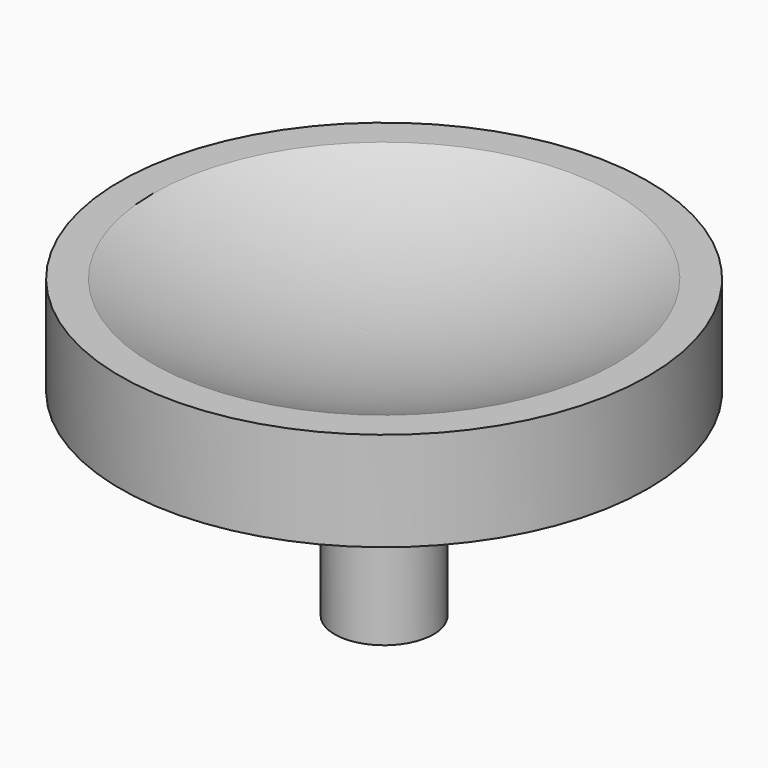
from build123d import *

# Parameters (mm, degrees)
F0_R     = 10.16
F1_DEPTH = 3.81
F4_R     = 1.905
F5_DEPTH = 7.62


with BuildPart() as f1:
    # F0 (on Top) → F1 (new body)
    with BuildSketch(Plane.XY):
        Circle(F0_R)
    extrude(amount=F1_DEPTH)

    # F2 (on Front) → F3 (revolve, cut)
    with BuildSketch(Plane.XZ):
        with BuildLine():
            Line((0, 3.81), (-8.89, 3.81))
            ThreePointArc((-8.89, 3.81), (-4.559636, 2.292467), (0, 1.778))
            Line((0, 1.778), (0, 3.81))
        make_face()
    revolve(axis=Axis((0, 0, 2.794), (0, 0, -1)), mode=Mode.SUBTRACT)

    # F4 (on face) → F5 (join)
    with BuildSketch(Plane(origin=(0, 0, 0), x_dir=(1, 0, 0), z_dir=(0, 0, -1))):
        Circle(F4_R)
    extrude(amount=F5_DEPTH)


solid = f1.part
